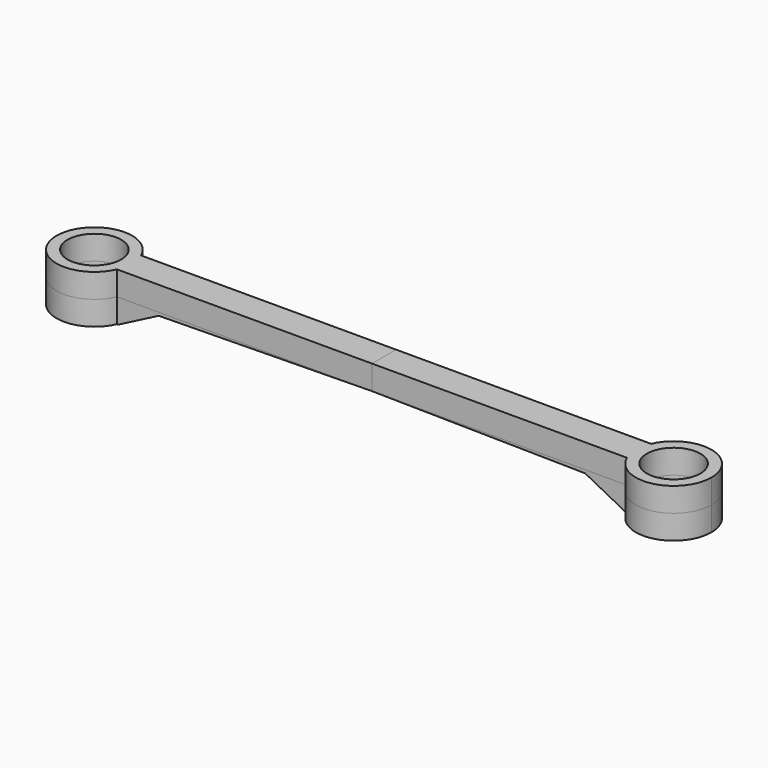
from build123d import *

# Parameters (mm, degrees)
F0_R          = 28.2124188792
F1_DEPTH      = 25.4
F1_DEPTH_BACK = 25.4
F3_DEPTH      = 67.69626
F3_DEPTH_BACK = 44.95286


with BuildPart() as f1:
    # F0 (on Top) → F1 (new body, two sides)
    with BuildSketch(Plane.XY) as f1_sk:
        with BuildLine():
            ThreePointArc((115.9656523028, -15.875), (112.6573614726, 0), (115.9656523028, 15.875))
            Line((115.9656523028, 15.875), (-152.4, 15.875))
            Line((-152.4, 15.875), (-152.4, -15.875))
            Line((-152.4, -15.875), (115.9656523028, -15.875))
        make_face()
        with BuildLine():
            ThreePointArc((192.1426385274, 0), (160.5080270907, 38.906775937), (115.9656523028, 15.875))
            ThreePointArc((115.9656523028, 15.875), (112.6573614726, 0), (115.9656523028, -15.875))
            ThreePointArc((115.9656523028, -15.875), (160.5080270907, -38.906775937), (192.1426385274, 0))
        make_face()
        with Locations((152.4, 0)):
            Circle(F0_R, mode=Mode.SUBTRACT)
    extrude(amount=F1_DEPTH)
    extrude(f1_sk.sketch, amount=-F1_DEPTH_BACK)

    # F2 (on Front) → F3 (cut, two sides)
    with BuildSketch(Plane.XZ) as f3_sk:
        Polygon((72.0261707902, -3.3403777052), (-164.0271991491, 0), (-162.436529994, -48.5150068998), (115.6101450324, -51.6963265836), (115.6101450324, -25.9276945144), align=None)
    extrude(amount=-F3_DEPTH, mode=Mode.SUBTRACT)
    extrude(f3_sk.sketch, amount=F3_DEPTH_BACK, mode=Mode.SUBTRACT)

    # F4: F1 across face


with BuildPart() as f1_1:
    add(f1.part)
    add(f1.part.mirror(Plane(origin=(-152.4, 0, 12.6177320857), x_dir=(0, -1, 0), z_dir=(-1, 0, 0))))


solid = f1_1.part
